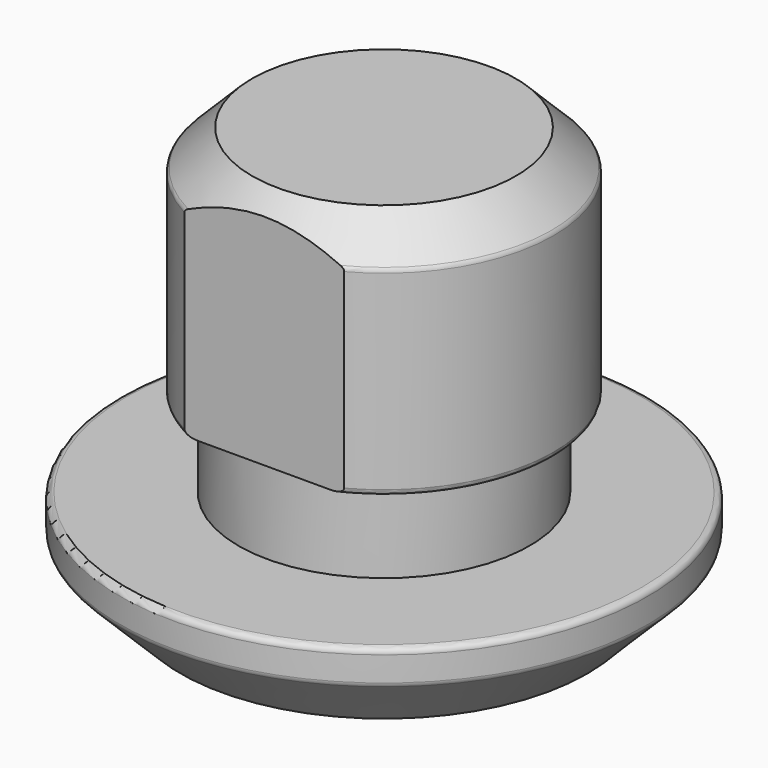
from build123d import *

# Parameters (mm, degrees)
F2_SIZE  = 5.08
F3_SIZE  = 3.175
F4_R     = 0.508
F6_R     = 3.4036
F7_DEPTH = 25.4
F8_W     = 7.3712486774
F8_H     = 21.0607126355
F9_DEPTH = 44.4510001


with BuildPart() as f1:
    # F0 (on Front) → F1 (revolve)
    with BuildSketch(Plane.XZ):
        Polygon((0, 7.874), (0, 0), (22.225, 0), (22.225, 34.925), (7.9375, 34.925), (7.9375, 14.986), (9.9695, 14.986), (9.9695, 7.874), align=None)
    revolve(axis=Axis((22.225, 0, 17.4625), (0, 0, -1)))

    # F2
    f2_edges = [f1.edges().sort_by_distance(p)[0] for p in [
        (44.45, 0, 0),
    ]]
    chamfer(f2_edges, length=F2_SIZE)

    # F3
    f3_edges = [f1.edges().sort_by_distance(p)[0] for p in [
        (36.5125, 0, 34.925),
    ]]
    chamfer(f3_edges, length=F3_SIZE)

    # F4
    f4_edges = [f1.edges().sort_by_distance(p)[0] for p in [
        (36.5125, 0, 14.986),
        (7.9375, 0, 23.368),
        (36.5125, 0, 31.75),
        (0, 0, 6.477),
        (44.45, 0, 5.08),
        (44.45, 0, 7.874),
    ]]
    fillet(f4_edges, radius=F4_R)

    # F6 (on offset) → F7 (cut)
    with BuildSketch(Plane.XZ.offset(-6.35)):
        with Locations((22.225, 23.5167897552)):
            Circle(F6_R)
    extrude(amount=-F7_DEPTH, mode=Mode.SUBTRACT)

    # F8 (on Right) → F9 (cut, through all)
    with BuildSketch(Plane.YZ):
        with Locations((-16.2897733971, 24.8754546046)):
            Rectangle(F8_W, F8_H)
    extrude(amount=F9_DEPTH, mode=Mode.SUBTRACT)


solid = f1.part
